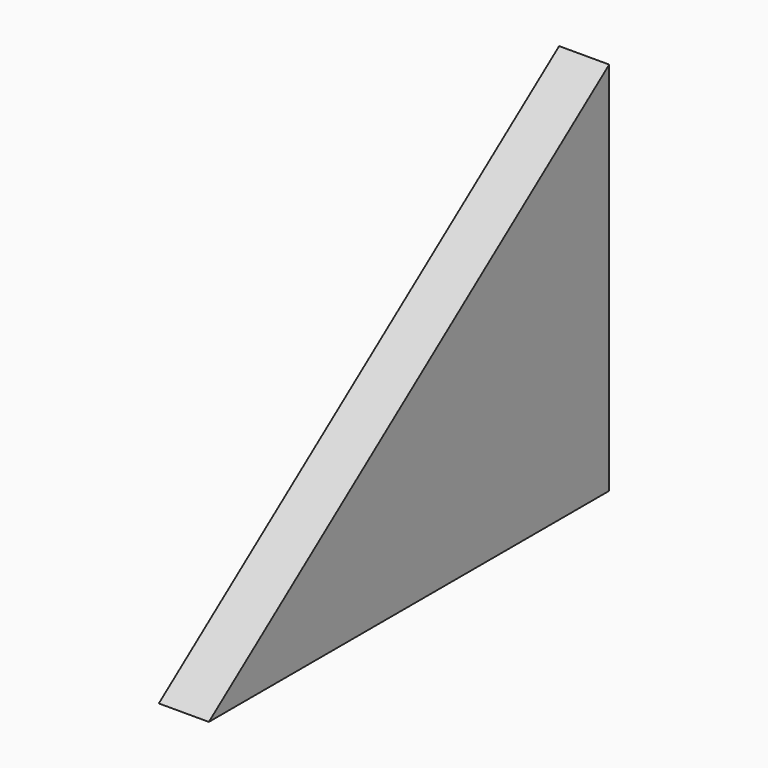
from build123d import *

# Parameters (mm, degrees)
F1_DEPTH = 8


with BuildPart() as f1:
    # F0 (on Right) → F1 (new body)
    with BuildSketch(Plane.YZ):
        Polygon((-77.870131, 0), (2.129869, 0), (2.129869, 60), align=None)
        Polygon((-77.870131, 0), (2.129869, 0), (2.129869, 60), align=None)
    extrude(amount=F1_DEPTH)


solid = f1.part
